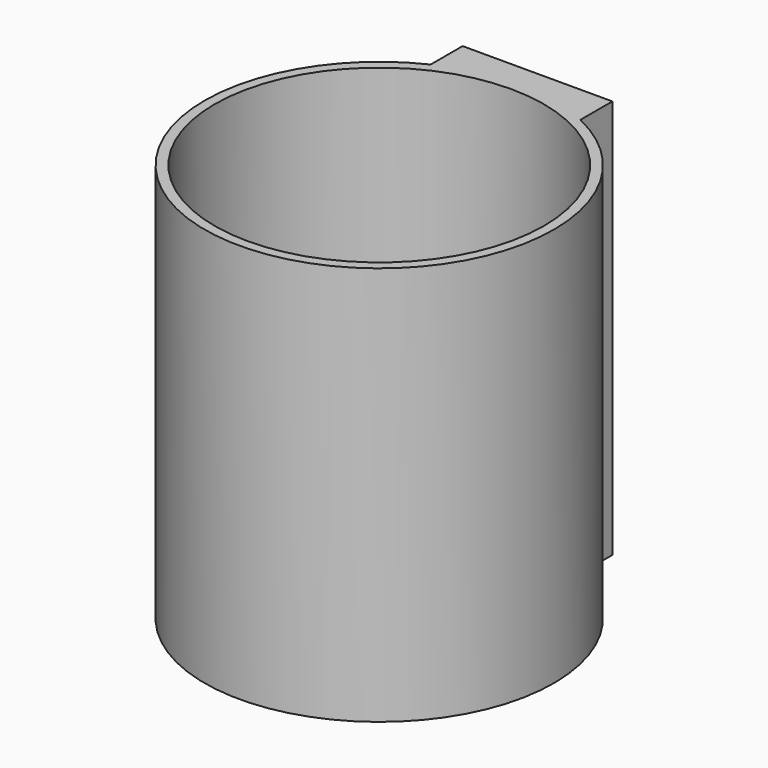
from build123d import *

# Parameters (mm, degrees)
PAD_DEPTH            = 80
SKETCH001_R          = 33
POCKET_DEPTH         = 78
SKETCH002_R          = 5
POCKET001_DEPTH      = 80.001
SKETCH003_R          = 4.5
POCKET002_DEPTH      = 3.5
LINEARPATTERN_COUNT  = 2
LINEARPATTERN_PITCH  = 40
BODY_PLACEMENT_ANGLE = 180


with BuildPart() as part:
    # Sketch → Pad (new body)
    with BuildSketch(Plane.XY):
        with BuildLine():
            Line((-15, 39.622777), (15, 39.622777))
            Line((15, 39.622777), (15, 31.622777))
            ThreePointArc((-15, 31.622777), (0, -35), (15, 31.622777))
            Line((-15, 39.622777), (-15, 31.622777))
        make_face()
    extrude(amount=PAD_DEPTH)

    # Sketch001 → Pocket (cut)
    with BuildSketch(Plane.XY):
        Circle(SKETCH001_R)
    extrude(amount=POCKET_DEPTH, mode=Mode.SUBTRACT)

    # Sketch002 → Pocket001 (cut, through all)
    with BuildSketch(Plane.XY):
        Circle(SKETCH002_R)
    extrude(amount=POCKET001_DEPTH, mode=Mode.SUBTRACT)

    # Sketch003 (on Face1 of Pocket001) → Pocket002 (cut)
    with BuildSketch(Plane(origin=(0, 39.622777, 0), x_dir=(-1, 0, 0), z_dir=(0, 1, 0))):
        with Locations((0, 20)):
            Circle(SKETCH003_R)
    pocket002 = extrude(amount=-POCKET002_DEPTH, mode=Mode.SUBTRACT)

    # LinearPattern: Pocket002 ×2
    with Locations(*[(0, 0, i * LINEARPATTERN_PITCH) for i in range(1, LINEARPATTERN_COUNT)]):
        add(pocket002, mode=Mode.SUBTRACT)


with BuildPart() as part_1:
    # Body placement: moved
    add(part.part.rotate(Axis((0, 0, 0), (0, 1, 0)), BODY_PLACEMENT_ANGLE))


solid = part_1.part
